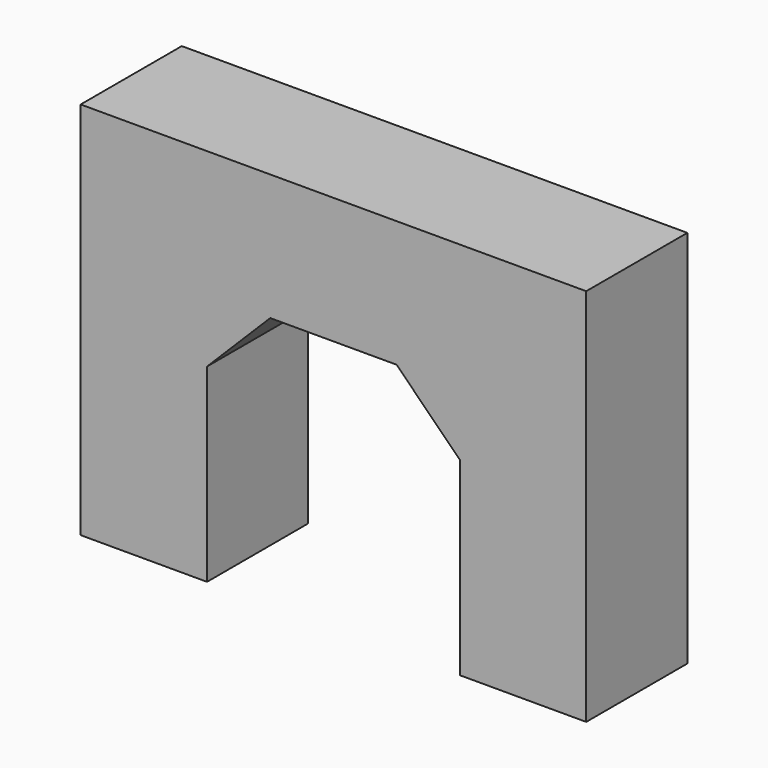
from build123d import *

# Parameters (mm, degrees)
PAD_DEPTH    = 10
CHAMFER_SIZE = 10


with BuildPart() as part:
    # Sketch → Pad (new body, symmetric)
    with BuildSketch(Plane.XZ):
        Polygon((-40, 0), (-20, 0), (-20, 40), (20, 40), (20, 0), (40, 0), (40, 60), (-40, 60), align=None)
    extrude(amount=PAD_DEPTH, both=True)

    # Chamfer
    chamfer_edges = [part.edges().sort_by_distance(p)[0] for p in [
        (-20, 0, 40),
        (20, 0, 40),
    ]]
    chamfer(chamfer_edges, length=CHAMFER_SIZE)


solid = part.part
